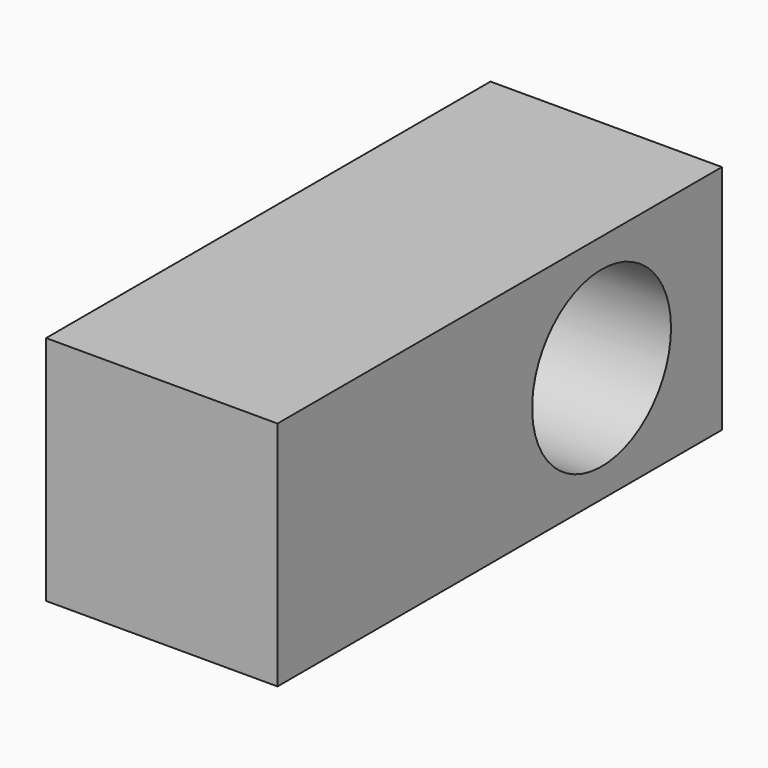
from build123d import *

# Parameters (mm, degrees)
F0_W     = 63.5
F0_H     = 63.5
F1_DEPTH = 76.2
F3_D     = 47.625


with BuildPart() as f1:
    # F0 (on Front) → F1 (new body, symmetric)
    with BuildSketch(Plane.XZ):
        Rectangle(F0_W, F0_H)
    extrude(amount=F1_DEPTH, both=True)

    # F3 (through all)
    with Locations(Plane(origin=(-31.75, 0, 0), x_dir=(0, -1, 0), z_dir=(-1, 0, 0))):
        with Locations((-34.925, 0)):
            Hole(F3_D / 2)


solid = f1.part
